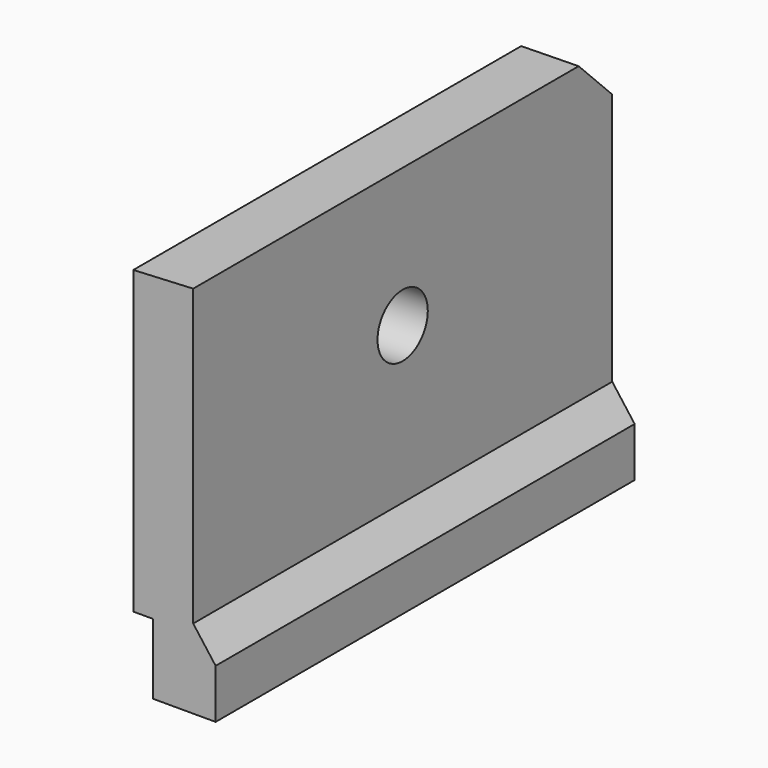
from build123d import *

# Parameters (mm, degrees)
PAD_DEPTH       = 35
POCKET001_DEPTH = 4.501
SKETCH010_R     = 2.1
POCKET_DEPTH    = 4.501


with BuildPart() as part:
    # Sketch001 → Pad (new body)
    with BuildSketch(Plane(origin=(0, 2.56, 3.75), x_dir=(1, 0, 0), z_dir=(0, -1, 0))):
        Polygon((-3.2, 0), (1, 0), (1, 3.3), (-0.5, 5.3), (-0.5, 25), (-4.5, 24.8), (-4.5, 4.7), (-3.2, 4.7), align=None)
    extrude(amount=PAD_DEPTH)

    # Sketch004 (on Body) → Pocket001 (cut, through all)
    with BuildSketch(Plane(origin=(0, 0.1, 0), x_dir=(0, 1, 0), z_dir=(1, 0, 0))):
        Polygon((-0.374562, 28.780826), (2.525438, 25.880826), (2.525438, 28.780826), align=None)
    extrude(amount=-POCKET001_DEPTH, mode=Mode.SUBTRACT)

    # Sketch010 → Pocket (cut, through all)
    with BuildSketch(Plane.YZ):
        with Locations((-14.943965, 19.475978)):
            Circle(SKETCH010_R)
    extrude(amount=-POCKET_DEPTH, mode=Mode.SUBTRACT)


solid = part.part
